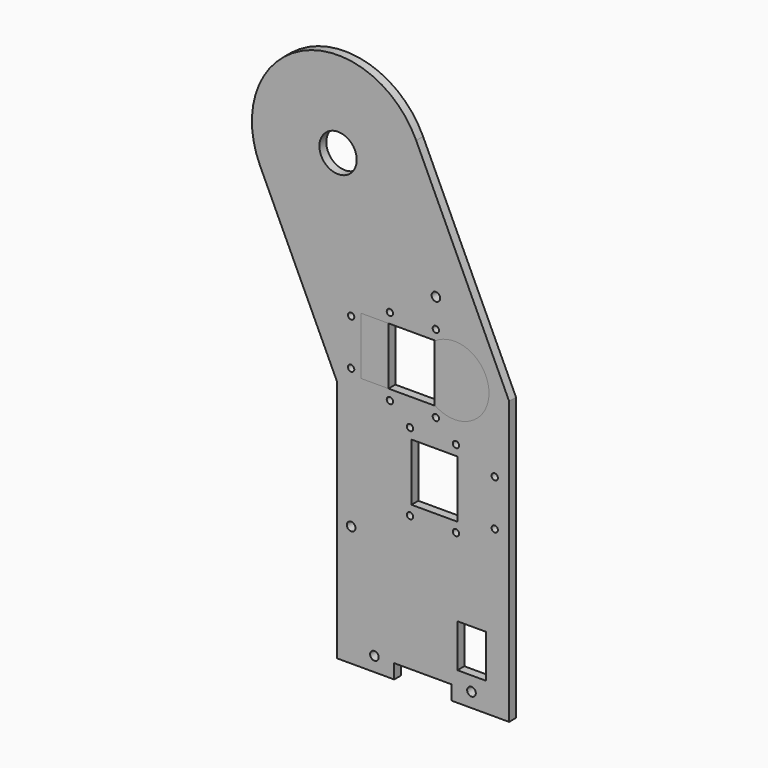
from build123d import *

# Parameters (mm, degrees)
F0_R     = 1.5
F0_R_2   = 1.1
F0_W     = 10
F0_H     = 15
F0_R_3   = 6.5
F0_W_2   = 16
F0_H_2   = 20
F2_DEPTH = 3
F1_R     = 1.5
F1_R_2   = 1.1
F1_W     = 10
F1_H     = 15
F1_W_2   = 16
F1_H_2   = 20
F1_R_3   = 6.5
F3_DEPTH = 3


with BuildPart() as f2:
    # F0 (on Front) → F2 (new body)
    with BuildSketch(Plane.XZ):
        with BuildLine():
            ThreePointArc((27.189234, 12.678548), (-12.678548, 27.189234), (-27.189234, -12.678548))
            Line((-27.189234, -12.678548), (-0.459801, -70))
            Line((-0.459801, -70), (-0.459801, -150))
            Line((-0.459801, -150), (-0.459801, -155))
            Line((-0.459801, -155), (19.540199, -155))
            Line((19.540199, -155), (19.540199, -150))
            Line((19.540199, -150), (39.540199, -150))
            Line((39.540199, -150), (39.540199, -155))
            Line((39.540199, -155), (59.540199, -155))
            Line((59.540199, -155), (59.540199, -150))
            Line((59.540199, -150), (59.540199, -56.69832))
            Line((59.540199, -56.69832), (27.189234, 12.678548))
        make_face()
        with Locations((12.640199, -150)):
            Circle(F0_R, mode=Mode.SUBTRACT)
        with Locations((4.540199, -113)):
            Circle(F0_R, mode=Mode.SUBTRACT)
        with Locations((4.540199, -64.5)):
            Circle(F0_R_2, mode=Mode.SUBTRACT)
        with Locations((46.440199, -150)):
            Circle(F0_R, mode=Mode.SUBTRACT)
        with Locations((46.540199, -137.5)):
            Rectangle(F0_W, F0_H, mode=Mode.SUBTRACT)
        with Locations((25.040199, -103)):
            Circle(F0_R_2, mode=Mode.SUBTRACT)
        with BuildLine():
            ThreePointArc((25.173448, -99.5), (6.540199, -89.5), (25.173448, -79.5))
            Line((25.173448, -79.5), (51.040199, -79.5))
            Line((51.040199, -79.5), (51.040199, -99.5))
            Line((51.040199, -99.5), (25.173448, -99.5))
        make_face(mode=Mode.SUBTRACT)
        with Locations((25.040199, -76)):
            Circle(F0_R_2, mode=Mode.SUBTRACT)
        with Locations((18.040199, -70)):
            Circle(F0_R_2, mode=Mode.SUBTRACT)
        with Locations((34.040199, -70)):
            Circle(F0_R_2, mode=Mode.SUBTRACT)
        with Locations((41.040199, -103)):
            Circle(F0_R_2, mode=Mode.SUBTRACT)
        with Locations((54.540199, -97.5)):
            Circle(F0_R_2, mode=Mode.SUBTRACT)
        with Locations((41.040199, -76)):
            Circle(F0_R_2, mode=Mode.SUBTRACT)
        with Locations((54.540199, -81.5)):
            Circle(F0_R_2, mode=Mode.SUBTRACT)
        with Locations((4.540199, -48.5)):
            Circle(F0_R_2, mode=Mode.SUBTRACT)
        Circle(F0_R_3, mode=Mode.SUBTRACT)
        with Locations((25.540199, -56.5)):
            Rectangle(F0_W_2, F0_H_2, mode=Mode.SUBTRACT)
        with Locations((18.040199, -43)):
            Circle(F0_R_2, mode=Mode.SUBTRACT)
        with Locations((34.040199, -43)):
            Circle(F0_R_2, mode=Mode.SUBTRACT)
        with Locations((34.040199, -33)):
            Circle(F0_R, mode=Mode.SUBTRACT)
    extrude(amount=F2_DEPTH)


with BuildPart() as f3:
    # F1 (on Front) → F3 (new body)
    with BuildSketch(Plane.XZ):
        with BuildLine():
            ThreePointArc((27.189234, 12.678548), (-12.678548, 27.189234), (-27.189234, -12.678548))
            Line((-27.189234, -12.678548), (-0.459801, -70))
            Line((-0.459801, -70), (-0.459801, -150))
            Line((-0.459801, -150), (-0.459801, -155))
            Line((-0.459801, -155), (19.540199, -155))
            Line((19.540199, -155), (19.540199, -150))
            Line((19.540199, -150), (39.540199, -150))
            Line((39.540199, -150), (39.540199, -155))
            Line((39.540199, -155), (59.540199, -155))
            Line((59.540199, -155), (59.540199, -150))
            Line((59.540199, -150), (59.540199, -56.69832))
            Line((59.540199, -56.69832), (27.189234, 12.678548))
        make_face()
        with Locations((12.640199, -150)):
            Circle(F1_R, mode=Mode.SUBTRACT)
        with Locations((4.540199, -113)):
            Circle(F1_R, mode=Mode.SUBTRACT)
        with Locations((4.540199, -64.5)):
            Circle(F1_R_2, mode=Mode.SUBTRACT)
        with Locations((46.440199, -150)):
            Circle(F1_R, mode=Mode.SUBTRACT)
        with Locations((46.540199, -137.5)):
            Rectangle(F1_W, F1_H, mode=Mode.SUBTRACT)
        with Locations((25.040199, -103)):
            Circle(F1_R_2, mode=Mode.SUBTRACT)
        with Locations((33.540199, -89.5)):
            Rectangle(F1_W_2, F1_H_2, mode=Mode.SUBTRACT)
        with Locations((25.040199, -76)):
            Circle(F1_R_2, mode=Mode.SUBTRACT)
        with Locations((18.040199, -70)):
            Circle(F1_R_2, mode=Mode.SUBTRACT)
        with Locations((34.040199, -70)):
            Circle(F1_R_2, mode=Mode.SUBTRACT)
        with Locations((41.040199, -103)):
            Circle(F1_R_2, mode=Mode.SUBTRACT)
        with Locations((54.540199, -97.5)):
            Circle(F1_R_2, mode=Mode.SUBTRACT)
        with Locations((41.040199, -76)):
            Circle(F1_R_2, mode=Mode.SUBTRACT)
        with Locations((54.540199, -81.5)):
            Circle(F1_R_2, mode=Mode.SUBTRACT)
        with Locations((4.540199, -48.5)):
            Circle(F1_R_2, mode=Mode.SUBTRACT)
        Circle(F1_R_3, mode=Mode.SUBTRACT)
        with Locations((18.040199, -43)):
            Circle(F1_R_2, mode=Mode.SUBTRACT)
        with BuildLine():
            ThreePointArc((33.906949, -46.5), (46.214747, -45.926472), (52.540199, -56.5))
            ThreePointArc((52.540199, -56.5), (46.214747, -67.073528), (33.906949, -66.5))
            Line((33.906949, -66.5), (8.040199, -66.5))
            Line((8.040199, -66.5), (8.040199, -46.5))
            Line((8.040199, -46.5), (33.906949, -46.5))
        make_face(mode=Mode.SUBTRACT)
        with Locations((34.040199, -43)):
            Circle(F1_R_2, mode=Mode.SUBTRACT)
        with Locations((34.040199, -33)):
            Circle(F1_R, mode=Mode.SUBTRACT)
    extrude(amount=F3_DEPTH)


solid = Compound([f2.part, f3.part])
